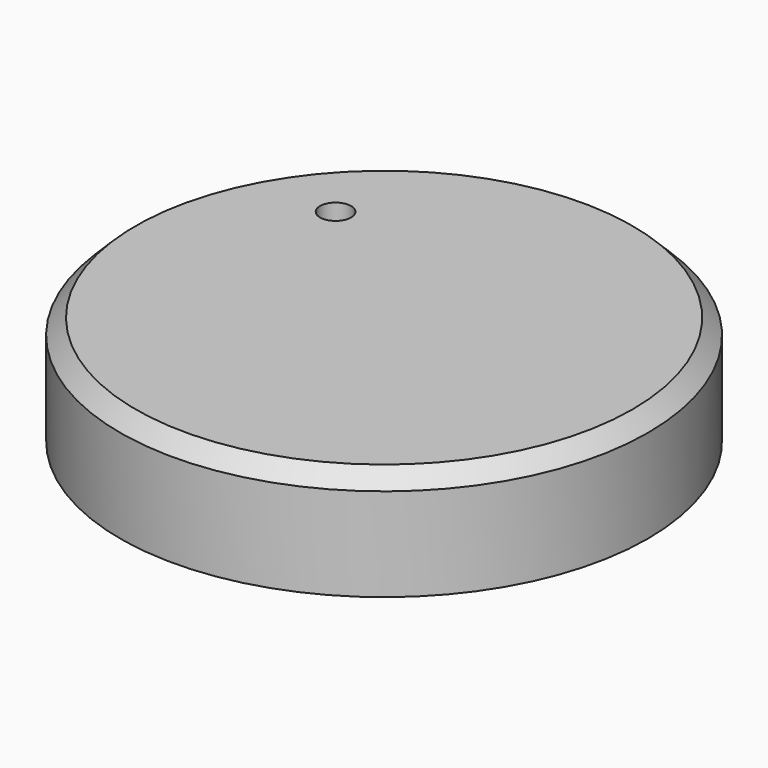
from build123d import *

# Parameters (mm, degrees)
SKETCH_R        = 17
PAD_DEPTH       = 7
SKETCH002_R     = 15
SKETCH002_R_2   = 5
POCKET_DEPTH    = 5
SKETCH001_R     = 3
POCKET001_DEPTH = 5
SKETCH003_R     = 1
POCKET002_DEPTH = 5
CHAMFER_SIZE    = 1


with BuildPart() as part:
    # Sketch → Pad (new body)
    with BuildSketch(Plane.XY):
        Circle(SKETCH_R)
    extrude(amount=PAD_DEPTH)

    # Sketch002 → Pocket (cut)
    with BuildSketch(Plane.XY):
        Circle(SKETCH002_R)
        Circle(SKETCH002_R_2, mode=Mode.SUBTRACT)
    extrude(amount=POCKET_DEPTH, mode=Mode.SUBTRACT)

    # Sketch001 → Pocket001 (cut)
    with BuildSketch(Plane.XY):
        Circle(SKETCH001_R)
    extrude(amount=POCKET001_DEPTH, mode=Mode.SUBTRACT)

    # Sketch003 (on Face3 of Pocket001) → Pocket002 (cut)
    with BuildSketch(Plane.XY.offset(7)):
        with Locations((-9.109988, 7.483499)):
            Circle(SKETCH003_R)
    extrude(amount=-POCKET002_DEPTH, mode=Mode.SUBTRACT)

    # Chamfer
    chamfer_edges = [part.edges().sort_by_distance(p)[0] for p in [
        (-17, 0, 7),
    ]]
    chamfer(chamfer_edges, length=CHAMFER_SIZE)


solid = part.part
